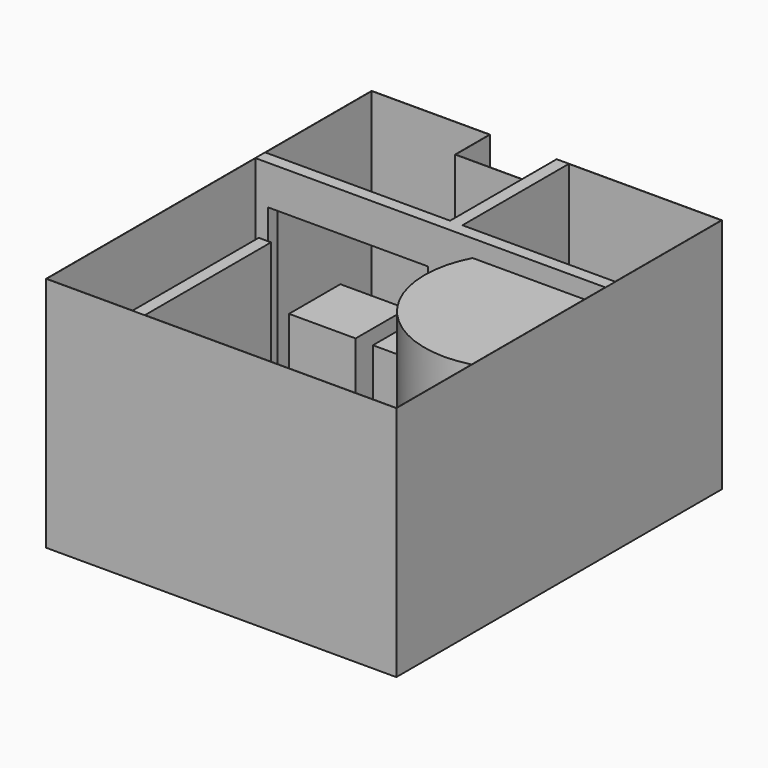
from build123d import *

# Parameters (mm, degrees)
F0_W      = 3606.8
F0_H      = 4191
F3_DEPTH  = 2438.4
F1_W      = 685.8
F1_H      = 444.5
F4_DEPTH  = 2438.4
F5_T      = -2.54
F6_DEPTH  = 2260
F7_W      = 127
F7_H      = 1625.6
F8_DEPTH  = 2438.4
F9_W      = 685.8
F9_H      = 660.4
F10_DEPTH = 914.4
F11_W     = 127
F11_H     = 1371.6
F11_W_2   = 1902.46
F11_H_2   = 127
F12_DEPTH = 2438.4
F13_W     = 1648.46
F13_H     = 2032
F14_DEPTH = 127


with BuildPart() as f3:
    # F0 (on Top) → F3 (new body)
    with BuildSketch(Plane.XY):
        with Locations((18.9348682761, -196.4497311732)):
            Rectangle(F0_W, F0_H)
    extrude(amount=F3_DEPTH)

    # F1 (on Top) → F4 (cut)
    with BuildSketch(Plane.XY):
        with Locations((-222.3651317239, 1676.8002688268)):
            Rectangle(F1_W, F1_H)
    extrude(amount=F4_DEPTH, mode=Mode.SUBTRACT)

    # F5
    f5_openings = [f3.faces().sort_by_distance(p)[0] for p in [
        (23.901186, -235.004043, 2438.4),
    ]]
    offset(amount=F5_T, openings=f5_openings, kind=Kind.INTERSECTION)

    # F2 (on Top) → F6 (join)
    with BuildSketch(Plane.XY):
        with BuildLine():
            Line((1822.3348682761, -968.5497311732), (1822.3348682761, 400.4502688268))
            Line((1822.3348682761, 400.4502688268), (453.3348682761, 400.4502688268))
            ThreePointArc((453.3348682761, 400.4502688268), (633.6883691015, -788.1962303477), (1822.3348682761, -968.5497311732))
        make_face()
    extrude(amount=F6_DEPTH)

    # F7 (on Top) → F8 (join)
    with BuildSketch(Plane.XY):
        with Locations((-831.9651317239, -1479.1497311732)):
            Rectangle(F7_W, F7_H)
    extrude(amount=F8_DEPTH)

    # F9 (on Top) → F10 (join)
    with BuildSketch(Plane.XY):
        with Locations((-1363.8244271278, 1068.2173974498)):
            Rectangle(F9_W, F9_H)
        with Locations((-495.1655566692, 1062.2670650482)):
            Rectangle(F9_W, F9_H)
    extrude(amount=F10_DEPTH)

    # F11 (on Top) → F12 (join)
    with BuildSketch(Plane.XY):
        with Locations((184.0348682761, 1213.2502688268)):
            Rectangle(F11_W, F11_H)
        Polygon((247.5348682761, 527.4502688268), (120.5348682761, 527.4502688268), (120.5348682761, 400.4502688268), (1822.3348682761, 400.4502688268), (1822.3348682761, 527.4502688268), align=None)
        with Locations((-830.6951317239, 463.9502688268)):
            Rectangle(F11_W_2, F11_H_2)
    extrude(amount=F12_DEPTH)

    # F13 (on face) → F14 (cut)
    with BuildSketch(Plane.XZ.offset(-400.4502688268)):
        with Locations((-830.6951317239, 1018.54)):
            Rectangle(F13_W, F13_H)
    extrude(amount=-F14_DEPTH, mode=Mode.SUBTRACT)


solid = f3.part
